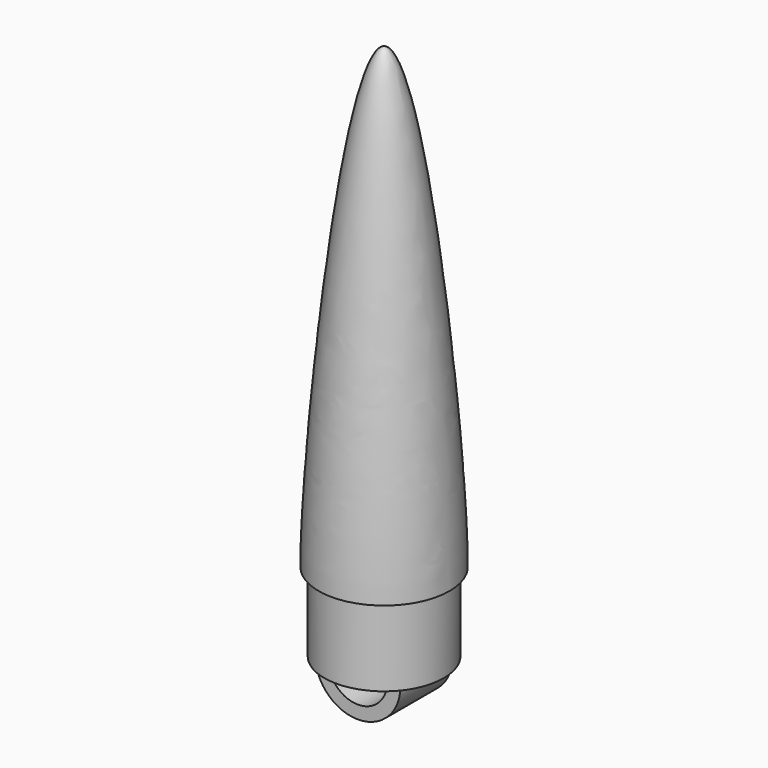
from build123d import *

# Parameters (mm, degrees)
F0_W          = 7.875
F0_H          = 1.25
F3_DEPTH      = 5
F3_DEPTH_BACK = 5


with BuildPart() as f1:
    # F0 (on Front) → F1 (revolve)
    with BuildSketch(Plane.XZ):
        with BuildLine():
            Line((0, 70), (0, 68.097363))
            add(Edge.make_bspline(
                [(0, 68.097363), (0.003592, 68.09113), (0.07337, 67.969303), (0.232892, 67.656501), (0.507646, 67.051925), (0.859518, 66.120844), (1.253078, 64.860289), (1.674236, 63.314783), (2.142845, 61.350268), (2.718045, 58.690644), (3.407742, 54.976126), (4.139755, 50.348117), (4.876793, 45.072361), (5.566387, 39.518896), (6.268445, 33.172377), (7.033795, 25.567699), (7.78545, 16.590048), (8.316298, 8.51723), (8.488766, 3.430609), (8.502319, 1.635654), (8.503069, 1.5)],
                knots=[0.805065, 0.805065, 0.805065, 0.805065, 0.826642, 1.226163, 1.857804, 2.818106, 4.209879, 5.818, 7.622868, 10.268131, 13.980579, 18.955129, 24.323545, 29.960928, 35.742836, 43.478942, 52.88949, 62.768847, 67.7471, 68.154084, 68.154084, 68.154084, 68.154084], degree=3))
            Line((8.503069, 1.5), (9.125, 1.5))
            Line((9.125, 1.5), (9.125, 0))
            Line((9.125, 0), (10, 0))
            add(Edge.make_bspline(
                [(0, 70), (5, 70), (10, 16), (10, 0)],
                knots=[0, 0, 0, 0, 70.710678, 70.710678, 70.710678, 70.710678], degree=3))
        make_face()
        Polygon((8.5, 0), (7.875, 0), (7.875, -10.75), (7.875, -12), (9.125, -12), (9.125, 0), align=None)
        with BuildLine():
            Line((9.125, 1.5), (8.503069, 1.5))
            add(Edge.make_bspline(
                [(8.503069, 1.5), (8.505834, 1.000035), (8.504876, 0.500036), (8.5, 0)],
                knots=[68.154084, 68.154084, 68.154084, 68.154084, 69.654056, 69.654056, 69.654056, 69.654056], degree=3))
            Line((8.5, 0), (9.125, 0))
            Line((9.125, 0), (9.125, 1.5))
        make_face()
        with BuildLine():
            Line((7.875, 1.5), (7.875, 0))
            Line((7.875, 0), (8.5, 0))
            add(Edge.make_bspline(
                [(8.503069, 1.5), (8.505834, 1.000035), (8.504876, 0.500036), (8.5, 0)],
                knots=[68.154084, 68.154084, 68.154084, 68.154084, 69.654056, 69.654056, 69.654056, 69.654056], degree=3))
            Line((8.503069, 1.5), (7.875, 1.5))
        make_face()
        with BuildLine():
            Line((0, 68.097363), (0, 0))
            Line((0, 0), (7.875, 0))
            Line((7.875, 0), (7.875, 1.5))
            Line((7.875, 1.5), (8.503069, 1.5))
            add(Edge.make_bspline(
                [(0, 68.097363), (0.003592, 68.09113), (0.07337, 67.969303), (0.232892, 67.656501), (0.507646, 67.051925), (0.859518, 66.120844), (1.253078, 64.860289), (1.674236, 63.314783), (2.142845, 61.350268), (2.718045, 58.690644), (3.407742, 54.976126), (4.139755, 50.348117), (4.876793, 45.072361), (5.566387, 39.518896), (6.268445, 33.172377), (7.033795, 25.567699), (7.78545, 16.590048), (8.316298, 8.51723), (8.488766, 3.430609), (8.502319, 1.635654), (8.503069, 1.5)],
                knots=[0.805065, 0.805065, 0.805065, 0.805065, 0.826642, 1.226163, 1.857804, 2.818106, 4.209879, 5.818, 7.622868, 10.268131, 13.980579, 18.955129, 24.323545, 29.960928, 35.742836, 43.478942, 52.88949, 62.768847, 67.7471, 68.154084, 68.154084, 68.154084, 68.154084], degree=3))
        make_face()
        with Locations((3.9375, -11.375)):
            Rectangle(F0_W, F0_H)
    revolve(axis=Axis((0, 0, 35), (0, 0, 1)))

    # F2 (on Front) → F3 (join, two sides)
    with BuildSketch(Plane.XZ) as f3_sk:
        with BuildLine():
            ThreePointArc((-6.5, -12), (0, -18.5), (6.5, -12))
            Line((6.5, -12), (4.5, -12))
            ThreePointArc((4.5, -12), (0, -16.5), (-4.5, -12))
            Line((-4.5, -12), (-6.5, -12))
        make_face()
    extrude(amount=F3_DEPTH)
    extrude(f3_sk.sketch, amount=-F3_DEPTH_BACK)


solid = f1.part
